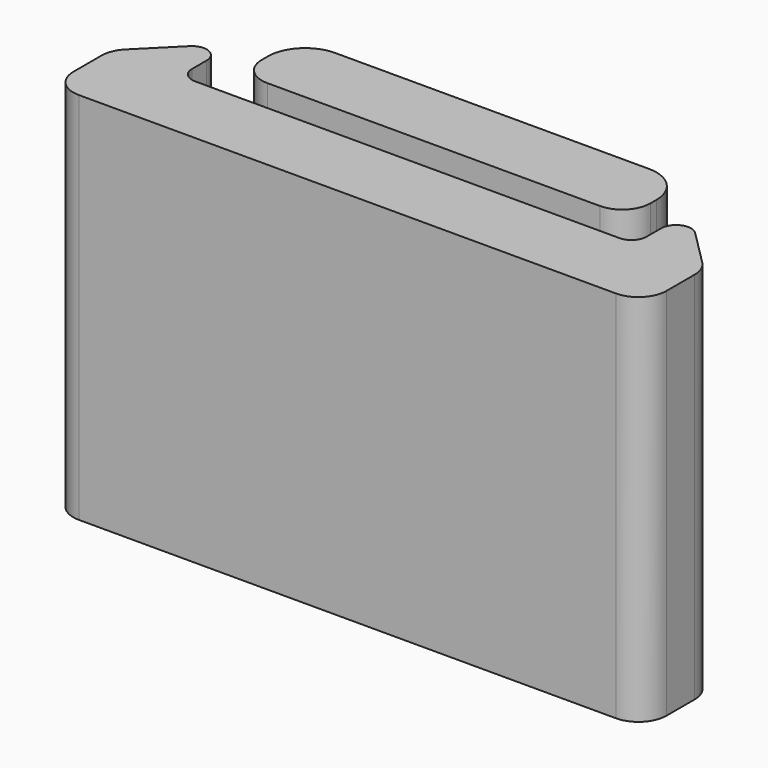
from build123d import *

# Parameters (mm, degrees)
F0_W     = 10.39
F0_H     = 1.95
F1_DEPTH = 10
F2_R     = 0.75
F3_R     = 0.4
F4_R     = 1


with BuildPart() as f1:
    # F0 (on Top) → F1 (new body)
    with BuildSketch(Plane.XY):
        Rectangle(F0_W, F0_H)
        Polygon((-7.93, -1.855), (-6.075, -1.855), (-6.075, 0), align=None)
        Polygon((7.93, -1.855), (6.075, -1.855), (-6.075, -1.855), (-7.93, -1.855), (-7.93, -3.855), (7.93, -3.855), align=None)
        Polygon((6.075, 0), (6.075, -1.855), (7.93, -1.855), align=None)
    extrude(amount=F1_DEPTH)

    # F2
    f2_edges = [f1.edges().sort_by_distance(p)[0] for p in [
        (-5.195, -0.975, 5),
        (5.195, -0.975, 5),
        (-7.93, -3.855, 5),
        (7.93, -3.855, 5),
        (7.93, -1.855, 5),
        (-7.93, -1.855, 5),
    ]]
    fillet(f2_edges, radius=F2_R)

    # F3
    f3_edges = [f1.edges().sort_by_distance(p)[0] for p in [
        (-6.075, 0, 5),
        (6.075, 0, 5),
        (6.075, -1.855, 5),
        (-6.075, -1.855, 5),
    ]]
    fillet(f3_edges, radius=F3_R)

    # F4
    f4_edges = [f1.edges().sort_by_distance(p)[0] for p in [
        (-5.195, 0.975, 5),
        (5.195, 0.975, 5),
    ]]
    fillet(f4_edges, radius=F4_R)


solid = f1.part
